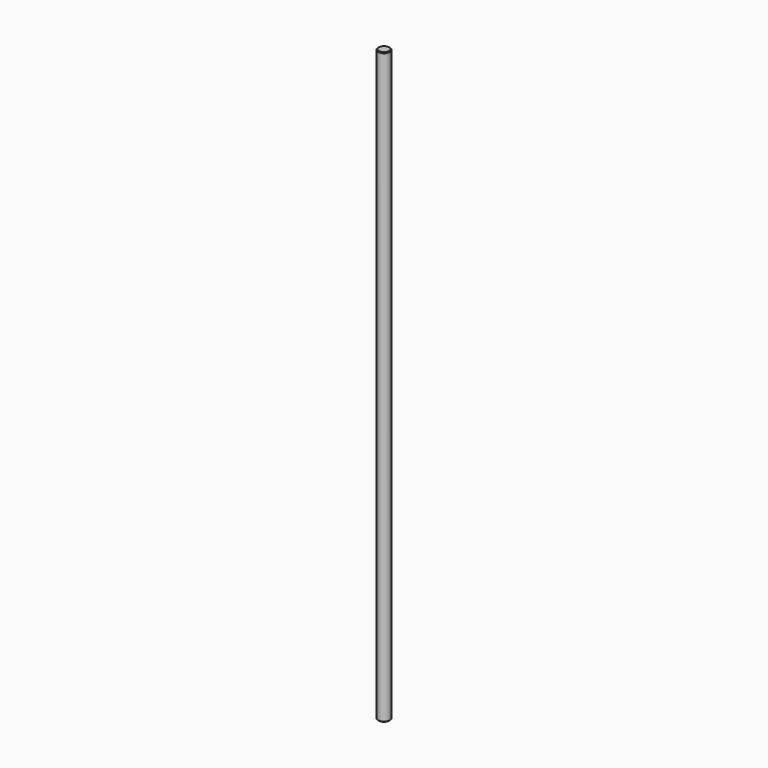
from build123d import *

# Parameters (mm, degrees)
F0_R     = 2.0066
F1_DEPTH = 203.2
F2_SIZE  = 0.254
F3_D     = 3.175
F3_DEPTH = 5.207
F3_TIP   = 0.9538662327


with BuildPart() as f1:
    # F0 (on Top) → F1 (new body)
    with BuildSketch(Plane.XY):
        Circle(F0_R)
    extrude(amount=F1_DEPTH)

    # F2
    f2_edges = [f1.edges().sort_by_distance(p)[0] for p in [
        (-2.0066, 0, 0),
        (-2.0066, 0, 203.2),
    ]]
    chamfer(f2_edges, length=F2_SIZE)

    # F3
    with Locations(Plane(origin=(0, 0, 0), x_dir=(1, 0, 0), z_dir=(0, 0, -1))):
        with Locations((0, 0)):
            Hole(F3_D / 2, depth=F3_DEPTH)
            with Locations((0, 0, -(F3_DEPTH + F3_TIP / 2))):  # 118° drill point
                Cone(0, F3_D / 2, F3_TIP, mode=Mode.SUBTRACT)


solid = f1.part
